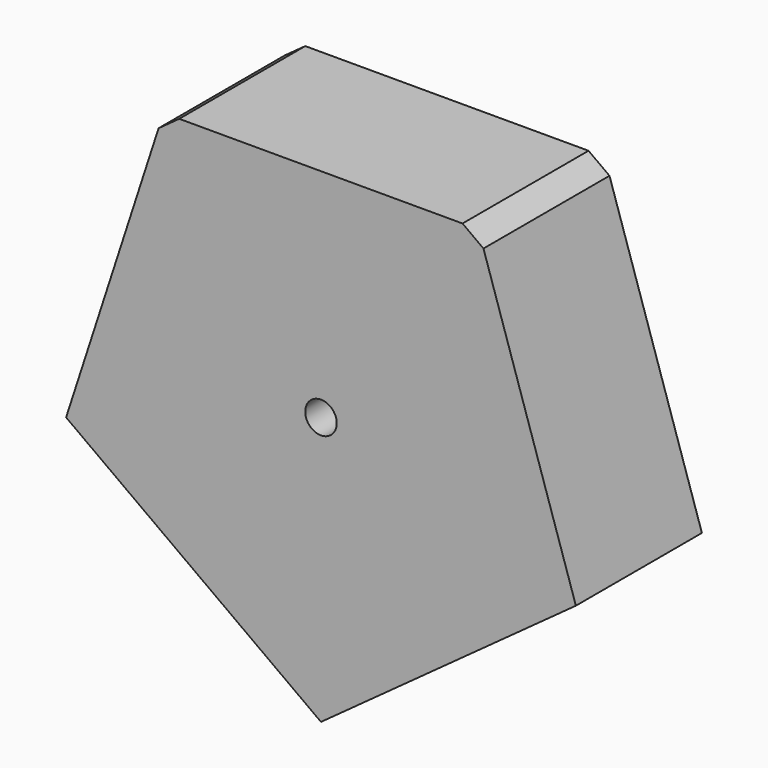
from build123d import *

# Parameters (mm, degrees)
F1_DEPTH = 50
F3_D     = 10
F4_SIZE  = 5
F5_SIZE  = 5.08


with BuildPart() as f1:
    # F0 (on Front) → F1 (new body)
    with BuildSketch(Plane.XZ):
        Polygon((50, 68.819096), (-50, 68.819096), (-80.901699, -26.286556), (0, -85.065081), (80.901699, -26.286556), align=None)
    extrude(amount=F1_DEPTH)

    # F3 (through all)
    with Locations(Plane(origin=(0, 0, 0), x_dir=(-1, 0, 0), z_dir=(0, 1, 0))):
        with Locations((0, 0)):
            Hole(F3_D / 2)

    # F4
    f4_edges = [f1.edges().sort_by_distance(p)[0] for p in [
        (-50, -25, 68.819096),
    ]]
    chamfer(f4_edges, length=F4_SIZE)

    # F5
    f5_edges = [f1.edges().sort_by_distance(p)[0] for p in [
        (50, -25, 68.819096),
    ]]
    chamfer(f5_edges, length=F5_SIZE)


solid = f1.part
